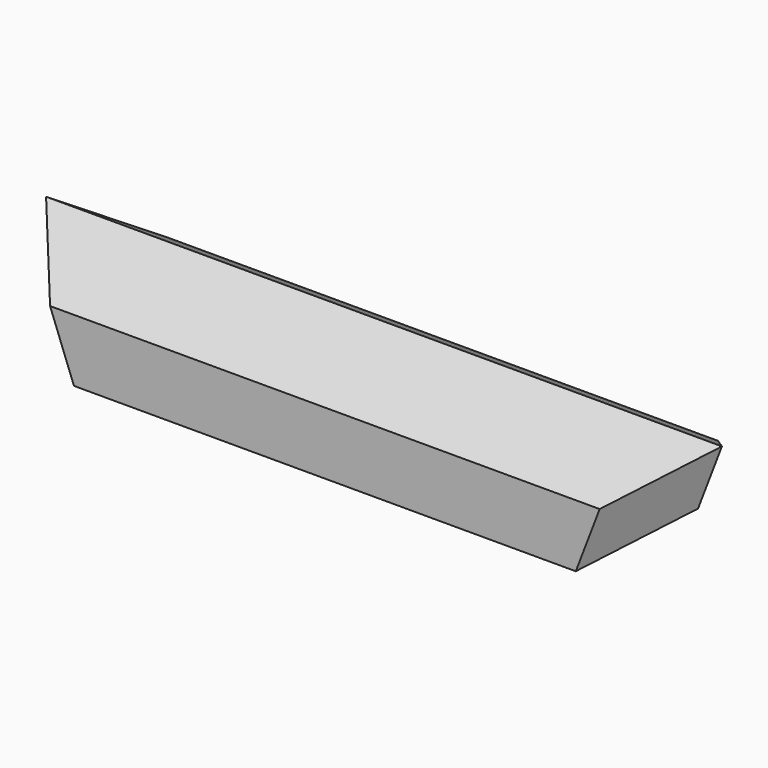
from build123d import *

# Parameters (mm, degrees)
F0_W           = 31.75
F0_H           = 38.1
F1_DEPTH       = 19.05
F3_DEPTH       = 19.051
F5_DEPTH       = 18.9707249215
F7_DEPTH       = 18.9707249215
F9_DEPTH       = 25.4
F12_DEPTH      = 14.5164068706
F12_DEPTH_BACK = 14.5164068706


with BuildPart() as f1:
    # F0 (on Right) → F1 (new body)
    with BuildSketch(Plane.YZ):
        Rectangle(F0_W, F0_H)
    extrude(amount=F1_DEPTH)

    # F2 (on face) → F3 (cut, through all)
    with BuildSketch(Plane.YZ.offset(19.05)):
        Polygon((15.875, 19.05), (0, 19.05), (15.875, 9.2454001677), align=None)
        Polygon((-15.875, 9.2454001677), (0, 19.05), (-15.875, 19.05), align=None)
        Polygon((-15.875, -19.05), (15.875, -19.05), (15.875, 6.5585523178), (0, 16.3631521501), (-15.875, 6.5585523178), align=None)
    extrude(amount=-F3_DEPTH, mode=Mode.SUBTRACT)

    # F4 (on face) → F5 (cut, through all)
    with BuildSketch(Plane(origin=(0, -8.5168191059, 13.7899053117), x_dir=(1, 0, 0), z_dir=(0, -0.5254716511, 0.8508111094))):
        Polygon((19.05, -10.060293047), (19.05, 16.251566953), (-0.0666852809, -10.060293047), align=None)
    extrude(amount=-F5_DEPTH, mode=Mode.SUBTRACT)

    # F6 (on face) → F7 (cut, through all)
    with BuildSketch(Plane(origin=(0, 8.5168191059, 13.7899053117), x_dir=(1, 0, 0), z_dir=(0, 0.5254716511, 0.8508111094))):
        Polygon((125.3145152414, -10.0102349529), (125.3145152414, 10.060293047), (110.7324230899, 10.060293047), align=None)
    extrude(amount=-F7_DEPTH, mode=Mode.SUBTRACT)

    # F8 (on face) → F9 (cut)
    with BuildSketch(Plane(origin=(0, 8.5168191059, 13.7899053117), x_dir=(1, 0, 0), z_dir=(0, 0.5254716511, 0.8508111094))):
        Polygon((-0.0666852809, 10.060293047), (19.05, -16.251566953), (19.05, 10.060293047), align=None)
    extrude(amount=-F9_DEPTH, mode=Mode.SUBTRACT)

    # F10: F1 across plane


with BuildPart() as f1_1:
    add(f1.part)
    add(f1.part.mirror(Plane.YZ))

    # F11 (on Right) → F12 (cut, two sides)
    with BuildSketch(Plane.YZ) as f12_sk:
        Polygon((-15.875, 9.2454001677), (-15.875, 6.5585523178), (-3.175, 14.4022321837), (-3.175, 17.0890800335), align=None)
        Polygon((15.875, 9.2454001677), (3.175, 17.0890800335), (3.175, 14.4022321837), (15.875, 6.5585523178), align=None)
    extrude(amount=-F12_DEPTH, mode=Mode.SUBTRACT)
    extrude(f12_sk.sketch, amount=F12_DEPTH_BACK, mode=Mode.SUBTRACT)


solid = f1_1.part
